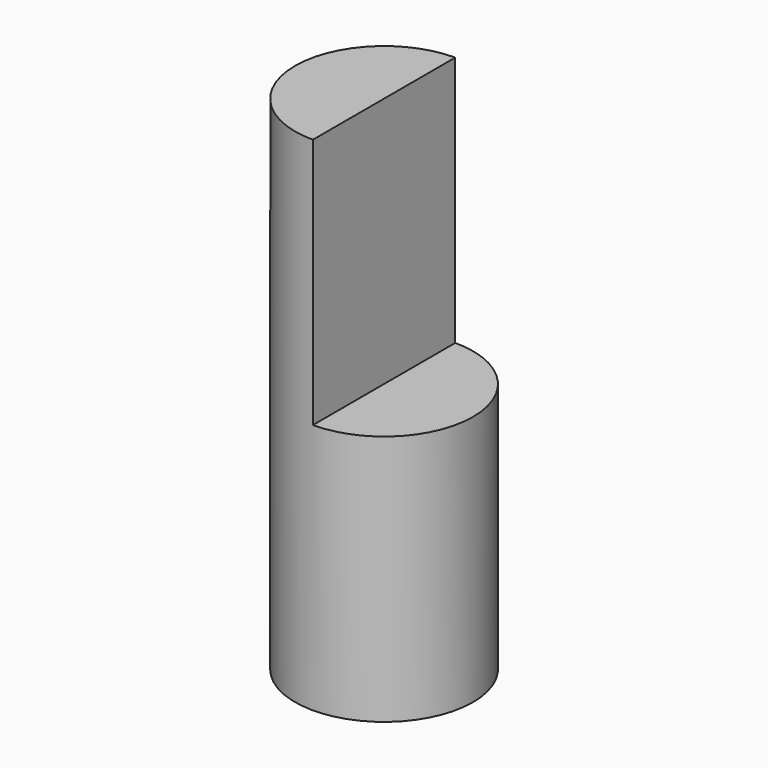
from build123d import *

# Parameters (mm, degrees)
F0_R     = 53.975
F1_DEPTH = 152.4
F3_DEPTH = 152.4


with BuildPart() as f1:
    # F0 (on Top) → F1 (new body, symmetric)
    with BuildSketch(Plane.XY):
        Circle(F0_R)
    extrude(amount=F1_DEPTH, both=True)

    # F2 (on face) → F3 (cut)
    with BuildSketch(Plane.XY.offset(152.4)):
        with BuildLine():
            Line((0, 53.975), (0, -53.975))
            ThreePointArc((0, -53.975), (38.166089, -38.166089), (53.975, 0))
            ThreePointArc((53.975, 0), (38.166089, 38.166089), (0, 53.975))
        make_face()
    extrude(amount=-F3_DEPTH, mode=Mode.SUBTRACT)


solid = f1.part
